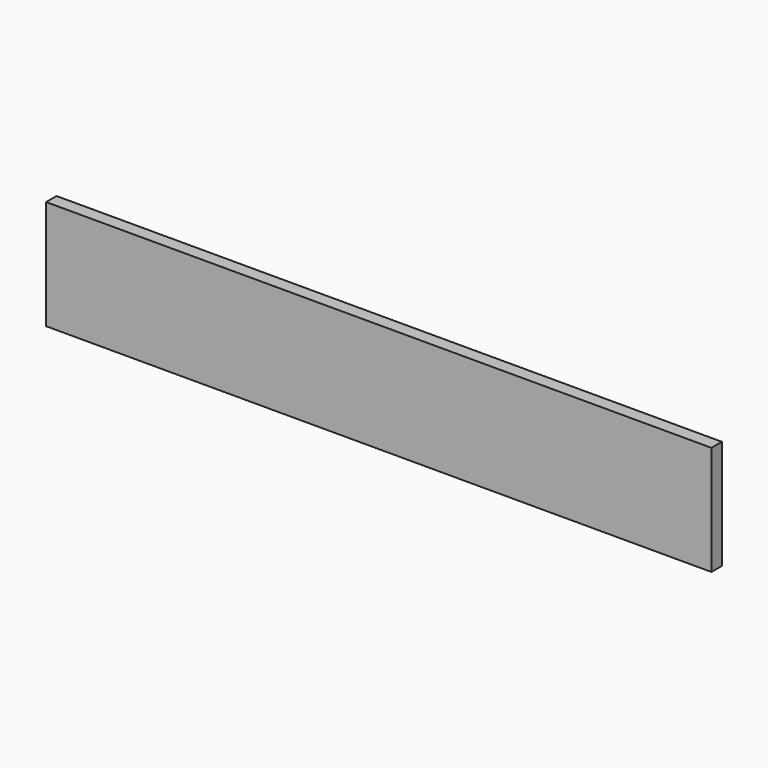
from build123d import *

# Parameters (mm, degrees)
BOX_W     = 1120
BOX_H     = 22
BOX_DEPTH = 184


with BuildPart() as part:
    # Box → Box (new body)
    with BuildSketch(Plane.XY):
        with Locations((560, 11)):
            Rectangle(BOX_W, BOX_H)
    extrude(amount=BOX_DEPTH)


solid = part.part
